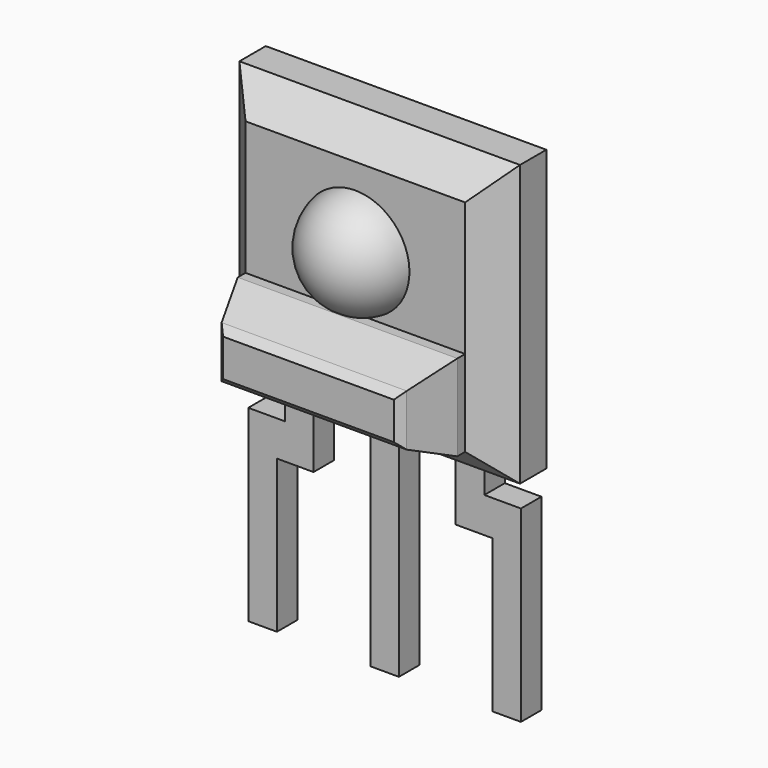
from build123d import *

# Parameters (mm, degrees)
SKETCH_W         = 4.6
SKETCH_H         = 4.6
PAD_DEPTH        = 1.04
SKETCH001_W      = 0.47
SKETCH001_H      = 3.5
PAD001_DEPTH     = 0.42
CHAMFER_SIZE     = 0.6
SKETCH002_R      = 0.9
PAD002_DEPTH     = 0.45
REVOLUTION_ANGLE = 180
SKETCH004_W      = 4.6
SKETCH004_H      = 4.6
PAD003_DEPTH     = 0.6
CHAMFER001_SIZE  = 0.5
SKETCH005_W      = 3.6
SKETCH005_H      = 1.412588
PAD004_DEPTH     = 0.96
CHAMFER002_SIZE  = 0.4
CHAMFER003_SIZE  = 0.4


with BuildPart() as part:
    # Sketch → Pad (new body)
    with BuildSketch(Plane.XZ):
        with Locations((0, 2.3)):
            Rectangle(SKETCH_W, SKETCH_H)
    extrude(amount=PAD_DEPTH)

    # Sketch001 → Pad001 (new body)
    with BuildSketch(Plane.XZ.offset(1.04)):
        with Locations((0, -1.75)):
            Rectangle(SKETCH001_W, SKETCH001_H)
        Polygon((1.635, 0), (1.635, -0.42), (2.235, -0.42), (2.235, -3.5), (1.765, -3.5), (1.765, -1), (1.165, -1), (1.165, 0), align=None)
        Polygon((-1.635, 0), (-1.635, -0.42), (-2.235, -0.42), (-2.235, -3.5), (-1.765, -3.5), (-1.765, -1), (-1.165, -1), (-1.165, 0), align=None)
    extrude(amount=-PAD001_DEPTH)

    # Chamfer
    chamfer_edges = [part.edges().sort_by_distance(p)[0] for p in [
        (0, 0, 4.6),
        (2.3, 0, 2.3),
        (-2.3, 0, 2.3),
        (0, 0, 0),
    ]]
    chamfer(chamfer_edges, length=CHAMFER_SIZE)

    # Sketch002 → Pad002 (new body)
    with BuildSketch(Plane.XZ.offset(1.04)):
        with Locations((0, 2.8)):
            Circle(SKETCH002_R)
    extrude(amount=PAD002_DEPTH)

    # Sketch003 → Revolution (revolve)
    with BuildSketch(Plane.XZ.offset(1.49)):
        with BuildLine():
            ThreePointArc((-1.1e-05, 3.7), (-0.9, 2.8), (-1.1e-05, 1.9))
            Line((-1.1e-05, 3.7), (-1.1e-05, 1.9))
        make_face()
    revolve(axis=Axis((0, -1.49, 0), (0, 0, 1)), revolution_arc=REVOLUTION_ANGLE)

    # Sketch004 → Pad003 (new body)
    with BuildSketch(Plane.XZ.offset(1.04)):
        with Locations((0, 2.3)):
            Rectangle(SKETCH004_W, SKETCH004_H)
    extrude(amount=PAD003_DEPTH)

    # Chamfer001
    chamfer001_edges = [part.edges().sort_by_distance(p)[0] for p in [
        (0, -1.64, 4.6),
        (2.3, -1.64, 2.3),
        (0, -1.64, 0),
        (-2.3, -1.64, 2.3),
    ]]
    chamfer(chamfer001_edges, length=CHAMFER001_SIZE)

    # Sketch005 → Pad004 (new body)
    with BuildSketch(Plane.XZ.offset(1.64)):
        with Locations((0, 1.206294)):
            Rectangle(SKETCH005_W, SKETCH005_H)
    extrude(amount=PAD004_DEPTH)

    # Chamfer002
    chamfer002_edges = [part.edges().sort_by_distance(p)[0] for p in [
        (0, -2.6, 1.912588),
        (0, -2.6, 0.5),
        (-1.8, -2.6, 1.206294),
        (1.8, -2.6, 1.206294),
    ]]
    chamfer(chamfer002_edges, length=CHAMFER002_SIZE)

    # Chamfer003
    chamfer003_edges = [part.edges().sort_by_distance(p)[0] for p in [
        (0, -2.2, 1.912588),
        (1.8, -2.2, 1.206294),
        (0, -2.2, 0.5),
        (-1.8, -2.2, 1.206294),
    ]]
    chamfer(chamfer003_edges, length=CHAMFER003_SIZE)


solid = part.part
